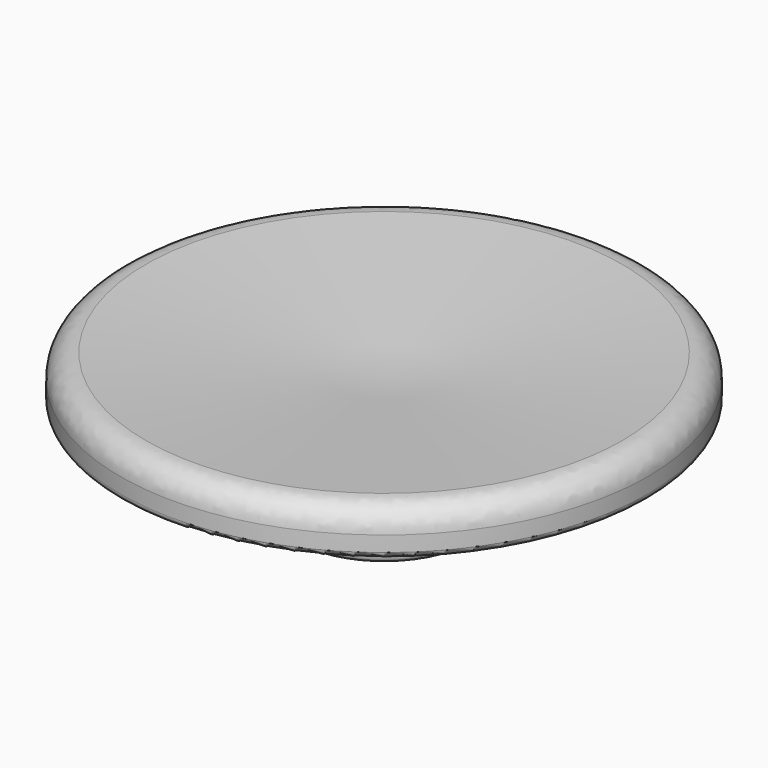
from build123d import *

# Parameters (mm, degrees)
F0_R     = 3.9
F1_DEPTH = 3
F0_R_2   = 5
F2_DEPTH = 1
F3_R     = 11.25
F4_DEPTH = 2
F7_R     = 1
F8_R     = 2
F9_DEPTH = 1
F10_R    = 0.25
F11_R    = 0.25
F12_R    = 0.25


with BuildPart() as f1:
    # F0 (on Top) → F1 (new body)
    with BuildSketch(Plane.XY):
        Circle(F0_R)
    extrude(amount=-F1_DEPTH)

    # F0 (on Top) → F2 (join)
    with BuildSketch(Plane.XY):
        Circle(F0_R_2)
        Circle(F0_R, mode=Mode.SUBTRACT)
        Circle(F0_R)
    extrude(amount=F2_DEPTH)

    # F3 (on face) → F4 (join)
    with BuildSketch(Plane.XY.offset(1)):
        Circle(F3_R)
    extrude(amount=F4_DEPTH)

    # F5 (on Front) → F6 (revolve, cut)
    with BuildSketch(Plane.XZ):
        Polygon((0, 2), (11.25, 3), (0, 3), align=None)
    revolve(axis=Axis((0, 0, 1), (0, 0, 1)), mode=Mode.SUBTRACT)

    # F7
    f7_edges = [f1.edges().sort_by_distance(p)[0] for p in [
        (-11.25, 0, 3),
    ]]
    fillet(f7_edges, radius=F7_R)

    # F8 (on face) → F9 (cut)
    with BuildSketch(Plane(origin=(0, 0, -3), x_dir=(1, 0, 0), z_dir=(0, 0, -1))):
        Circle(F8_R)
    extrude(amount=-F9_DEPTH, mode=Mode.SUBTRACT)

    # F10
    f10_edges = [f1.edges().sort_by_distance(p)[0] for p in [
        (-3.9, 0, -3),
    ]]
    fillet(f10_edges, radius=F10_R)

    # F11
    f11_edges = [f1.edges().sort_by_distance(p)[0] for p in [
        (-5, 0, 0),
    ]]
    fillet(f11_edges, radius=F11_R)

    # F12
    f12_edges = [f1.edges().sort_by_distance(p)[0] for p in [
        (-3.9, 0, 0),
        (-11.25, 0, 1),
        (-5, 0, 1),
    ]]
    fillet(f12_edges, radius=F12_R)


solid = f1.part
